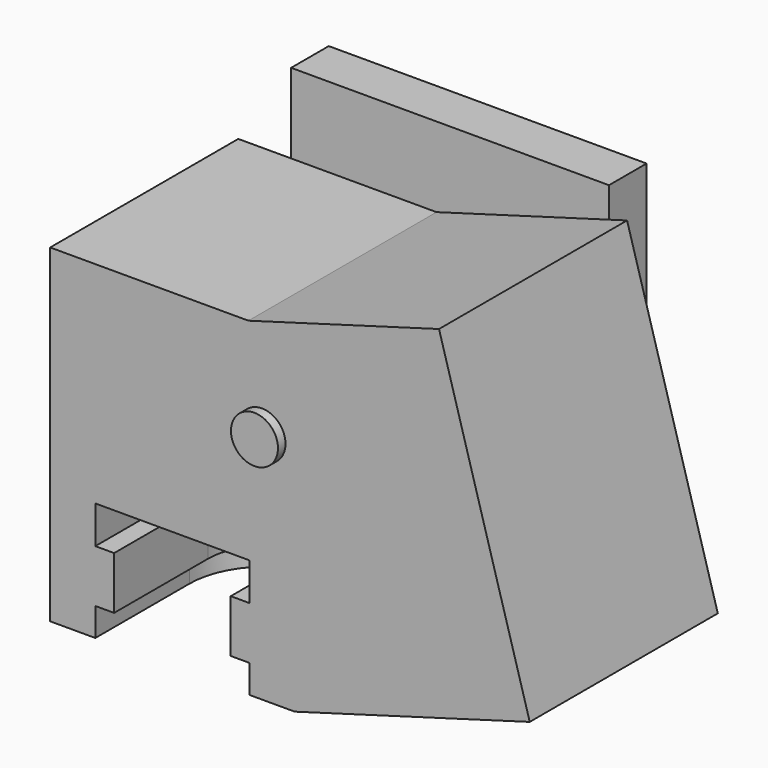
from build123d import *

# Parameters (mm, degrees)
F0_R      = 2.5
F1_DEPTH  = 12.5
F3_DEPTH  = 3
F5_DEPTH  = 5.6
F7_DEPTH  = 4
F8_W      = 33.799815923
F8_H      = 37.4540910125
F9_DEPTH  = 5
F10_R     = 2.5
F11_DEPTH = 26
F12_ANGLE = 8


with BuildPart() as f1:
    # F0 (on Front) → F1 (new body, symmetric)
    with BuildSketch(Plane.XZ):
        Polygon((-20.8759112537, 13.2778830309), (-25.7469697873, -21.381499375), (0, -25), (25.7469697873, -21.381499375), (20.8759112537, 13.2778830309), (0, 10.3439650382), align=None)
        Circle(F0_R, mode=Mode.SUBTRACT)
    extrude(amount=F1_DEPTH, both=True)

    # F2 (on face) → F3 (cut)
    with BuildSketch(Plane(origin=(-3.4454669477, 0, -24.5157711992), x_dir=(0.9902680687, 0, -0.139173101), z_dir=(-0.139173101, 0, -0.9902680687))):
        with BuildLine():
            Line((-17.720672476, 0), (-1.320672476, 0))
            ThreePointArc((-1.320672476, 0), (-9.520672476, 8.2), (-17.720672476, 0))
        make_face()
        with BuildLine():
            ThreePointArc((-17.720672476, 0), (-9.520672476, -8.2), (-1.320672476, 0))
            Line((-1.320672476, 0), (-17.720672476, 0))
        make_face()
        with BuildLine():
            ThreePointArc((-17.720672476, 0), (-9.520672476, 8.2), (-1.320672476, 0))
            Line((-1.320672476, 0), (-1.320672476, 12.5))
            Line((-1.320672476, 12.5), (-17.720672476, 12.5))
            Line((-17.720672476, 12.5), (-17.720672476, 0))
        make_face()
    extrude(amount=-F3_DEPTH, mode=Mode.SUBTRACT)

    # F4 (on face) → F5 (cut)
    with BuildSketch(Plane(origin=(-3.0279476448, 0, -21.544966993), x_dir=(0.9902680687, 0, -0.139173101), z_dir=(-0.139173101, 0, -0.9902680687))):
        with BuildLine():
            Line((-15.720672476, 0), (-3.320672476, 0))
            ThreePointArc((-3.320672476, 0), (-9.520672476, 6.2), (-15.720672476, 0))
        make_face()
        with BuildLine():
            ThreePointArc((-15.720672476, 0), (-9.520672476, -6.2), (-3.320672476, 0))
            Line((-3.320672476, 0), (-15.720672476, 0))
        make_face()
        with BuildLine():
            ThreePointArc((-15.720672476, 0), (-9.520672476, 6.2), (-3.320672476, 0))
            Line((-3.320672476, 0), (-3.320672476, 12.5))
            Line((-3.320672476, 12.5), (-15.720672476, 12.5))
            Line((-15.720672476, 12.5), (-15.720672476, 0))
        make_face()
    extrude(amount=-F5_DEPTH, mode=Mode.SUBTRACT)

    # F6 (on face) → F7 (cut)
    with BuildSketch(Plane(origin=(-2.2485782795, 0, -15.9994658081), x_dir=(0.9902680687, 0, -0.139173101), z_dir=(-0.139173101, 0, -0.9902680687))):
        with BuildLine():
            Line((-17.720672476, 0), (-1.320672476, 0))
            ThreePointArc((-1.320672476, 0), (-9.520672476, 8.2), (-17.720672476, 0))
        make_face()
        with BuildLine():
            ThreePointArc((-17.720672476, 0), (-9.520672476, -8.2), (-1.320672476, 0))
            Line((-1.320672476, 0), (-17.720672476, 0))
        make_face()
        with BuildLine():
            ThreePointArc((-17.720672476, 0), (-9.520672476, 8.2), (-1.320672476, 0))
            Line((-1.320672476, 0), (-1.320672476, 12.5))
            Line((-1.320672476, 12.5), (-17.720672476, 12.5))
            Line((-17.720672476, 12.5), (-17.720672476, 0))
        make_face()
    extrude(amount=-F7_DEPTH, mode=Mode.SUBTRACT)


with BuildPart() as f9:
    # F8 (on face) → F9 (new body)
    with BuildSketch(Plane(origin=(0, 12.5, 0), x_dir=(-1, 0, 0), z_dir=(0, 1, 0))):
        Rectangle(F8_W, F8_H)
    extrude(amount=F9_DEPTH)

    # F10 (on face) → F11 (join)
    with BuildSketch(Plane.XZ.offset(-12.5)):
        Circle(F10_R)
    extrude(amount=F11_DEPTH)


with BuildPart() as f1_1:
    # F12: moved
    add(f1.part.rotate(Axis((0, -13.5, 0), (0, -1, 0)), F12_ANGLE))


solid = Compound([f9.part, f1_1.part])
